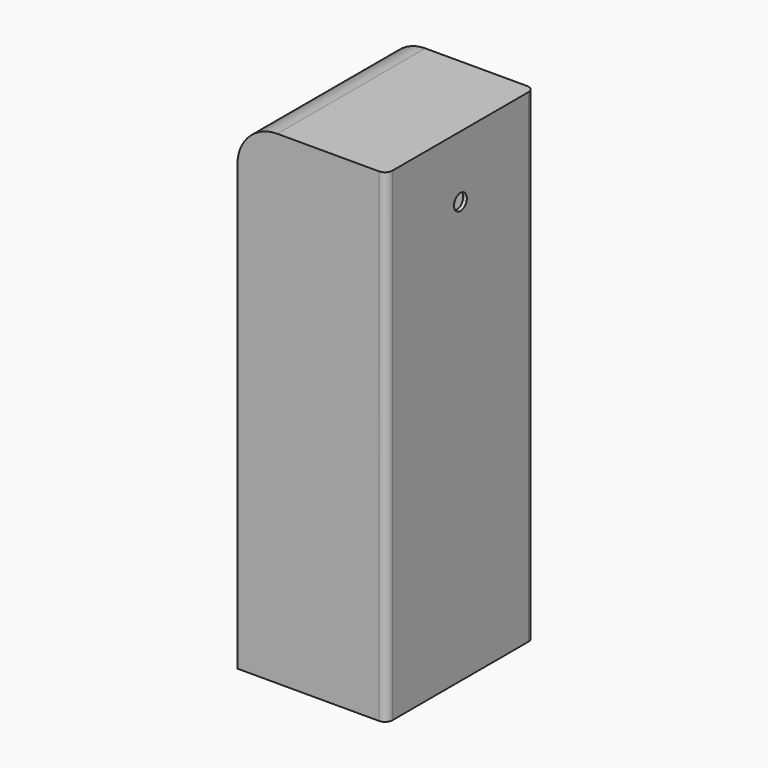
from build123d import *

# Parameters (mm, degrees)
F0_W      = 102.32898
F0_H      = 127
F1_DEPTH  = 332.19898
F2_R      = 27.39898
F3_R      = 5.08
F5_T      = -2.5
F7_DEPTH  = 2.5
F4_R      = 5.50037
F8_DEPTH  = 2.5
F9_R      = 5.50037
F9_R_2    = 3.5
F10_DEPTH = 6.35
F11_DEPTH = 2.5


with BuildPart() as f1:
    # F0 (on Top) → F1 (new body)
    with BuildSketch(Plane.XY):
        with Locations((51.16449, 63.5)):
            Rectangle(F0_W, F0_H)
    extrude(amount=F1_DEPTH)

    # F2
    f2_edges = [f1.edges().sort_by_distance(p)[0] for p in [
        (0, 63.5, 332.19898),
    ]]
    fillet(f2_edges, radius=F2_R)

    # F3
    f3_edges = [f1.edges().sort_by_distance(p)[0] for p in [
        (102.32898, 0, 166.09949),
        (102.32898, 127, 166.09949),
    ]]
    fillet(f3_edges, radius=F3_R)

    # F5
    f5_openings = [f1.faces().sort_by_distance(p)[0] for p in [
        (51.121814, 63.5, 0),
    ]]
    offset(amount=F5_T, openings=f5_openings)

    # F6 (on face) → F7 (join)
    with BuildSketch(Plane(origin=(0, 0, 0), x_dir=(1, 0, 0), z_dir=(0, 0, -1))):
        with BuildLine():
            Line((102.32898, -121.92), (102.32898, -5.08))
            ThreePointArc((102.32898, -5.08), (100.8410824484, -1.4878975516), (97.24898, 0))
            Line((97.24898, 0), (0, 0))
            Line((0, 0), (0, -127))
            Line((0, -127), (97.24898, -127))
            ThreePointArc((97.24898, -127), (100.8410824484, -125.5121024484), (102.32898, -121.92))
        make_face()
    extrude(amount=-F7_DEPTH)

    # F4 (on face) → F8 (cut, through all)
    with BuildSketch(Plane.YZ.offset(102.32898)):
        with Locations((63.5, 289.53968)):
            Circle(F4_R)
    extrude(amount=-F8_DEPTH, mode=Mode.SUBTRACT)

    # F9 (on face) → F10 (join)
    with BuildSketch(Plane(origin=(0, 0, 0), x_dir=(1, 0, 0), z_dir=(0, 0, -1))):
        with Locations((83.6168, -63.5)):
            Circle(F9_R)
        with Locations((83.6168, -63.5)):
            Circle(F9_R_2, mode=Mode.SUBTRACT)
    extrude(amount=F10_DEPTH)

    # F11 (cut, through all): a face of the model
    f11_faces = [f1.faces().sort_by_distance(p)[0] for p in [
        (83.6168, 63.5, 0),
    ]]
    extrude(f11_faces, amount=-F11_DEPTH, mode=Mode.SUBTRACT)


solid = f1.part
